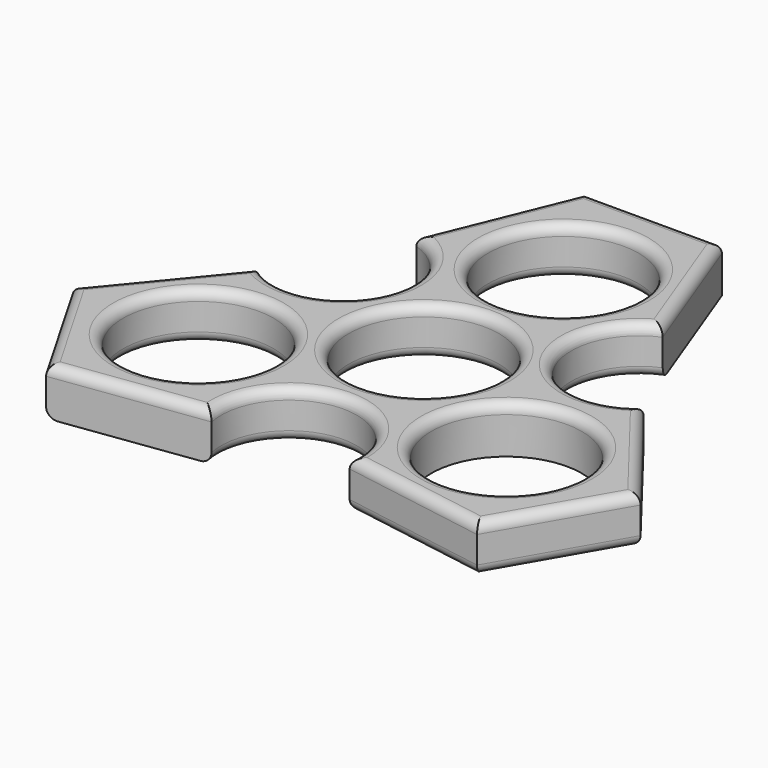
from build123d import *

# Parameters (mm, degrees)
F0_R     = 11.2
F1_DEPTH = 7
F2_R     = 1.5


with BuildPart() as f1:
    # F0 (on Top) → F1 (new body)
    with BuildSketch(Plane.XY):
        with BuildLine():
            Line((10.096211, 42.838152), (-10.312036, 42.838152))
            Line((-10.312036, 42.838152), (-18.785784, 22.092082))
            ThreePointArc((-18.785784, 22.092082), (-13.033213, 7.795587), (-28.074336, 4.442013))
            Line((-28.074336, 4.442013), (-42.147034, -12.675501))
            Line((-42.147034, -12.675501), (-31.94291, -30.349562))
            Line((-31.94291, -30.349562), (-9.739412, -27.315007))
            ThreePointArc((-9.739412, -27.315007), (-0.23457, -15.184887), (10.190272, -26.534095))
            Line((10.190272, -26.534095), (32.050823, -30.162651))
            Line((32.050823, -30.162651), (42.254947, -12.488591))
            Line((42.254947, -12.488591), (28.525196, 5.222925))
            ThreePointArc((28.525196, 5.222925), (13.267783, 7.3893), (17.884064, 22.092082))
            Line((17.884064, 22.092082), (10.096211, 42.838152))
        make_face()
        with Locations((-22.894841, -13.322902)):
            Circle(F0_R, mode=Mode.SUBTRACT)
        Circle(F0_R, mode=Mode.SUBTRACT)
        with Locations((22.863505, -13.19975)):
            Circle(F0_R, mode=Mode.SUBTRACT)
        with Locations((0, 25.949733)):
            Circle(F0_R, mode=Mode.SUBTRACT)
    extrude(amount=F1_DEPTH)

    # F2
    f2_edges = [f1.edges().sort_by_distance(p)[0] for p in [
        (-14.54891, 32.465117, 7),
        (-0.107913, 42.838152, 7),
        (13.990138, 32.465117, 7),
        (13.267783, 7.3893, 7),
        (-35.110685, -4.116744, 7),
        (-37.044972, -21.512531, 7),
        (-13.033213, 7.795587, 7),
        (-20.841161, -28.832284, 7),
        (-0.23457, -15.184887, 7),
        (21.120547, -28.348373, 7),
        (37.152885, -21.325621, 7),
        (35.390071, -3.632833, 7),
        (-34.094841, -13.322902, 7),
        (-11.2, 0, 7),
        (11.663505, -13.19975, 7),
        (-11.2, 25.949733, 7),
        (-0.23457, -15.184887, 0),
        (-37.044972, -21.512531, 0),
        (-34.094841, -13.322902, 0),
        (-35.110685, -4.116744, 0),
        (-11.2, 25.949733, 0),
        (-11.2, 0, 0),
        (21.120547, -28.348373, 0),
        (37.152885, -21.325621, 0),
        (35.390071, -3.632833, 0),
        (13.267783, 7.3893, 0),
    ]]
    fillet(f2_edges, radius=F2_R)


solid = f1.part
